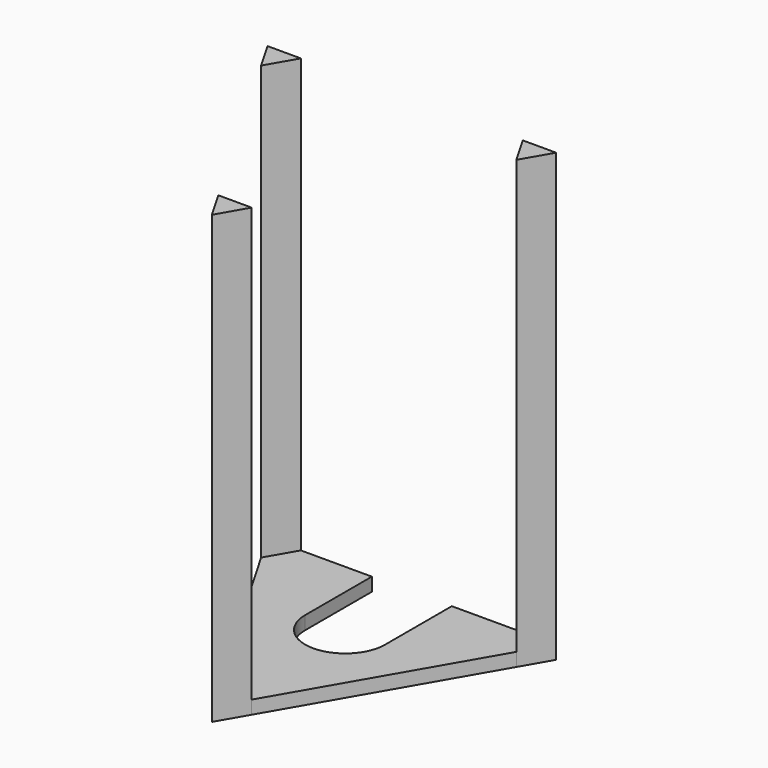
from build123d import *

# Parameters (mm, degrees)
F1_DEPTH = 67
F2_DEPTH = 2


with BuildPart() as f1:
    # F0 (on Top) → F1 (new body)
    with BuildSketch(Plane.XY):
        Polygon((0, -25), (2.5, -20.669873), (-2.5, -20.669873), align=None)
        Polygon((-21.650635, 12.5), (-19.150635, 8.169873), (-16.650635, 12.5), align=None)
        Polygon((19.150635, 8.169873), (21.650635, 12.5), (16.650635, 12.5), align=None)
    extrude(amount=F1_DEPTH)


with BuildPart() as f2:
    # F0 (on Top) → F2 (new body)
    with BuildSketch(Plane.XY):
        with BuildLine():
            Line((2.5, -20.669873), (19.150635, 8.169873))
            Line((19.150635, 8.169873), (16.650635, 12.5))
            Line((16.650635, 12.5), (6, 12.5))
            Line((6, 12.5), (6, 0))
            ThreePointArc((6, 0), (0, -6), (-6, 0))
            Line((-6, 0), (-6, 12.5))
            Line((-6, 12.5), (-16.650635, 12.5))
            Line((-16.650635, 12.5), (-19.150635, 8.169873))
            Line((-19.150635, 8.169873), (-2.5, -20.669873))
            Line((-2.5, -20.669873), (2.5, -20.669873))
        make_face()
    extrude(amount=F2_DEPTH)


solid = Compound([f1.part, f2.part])
